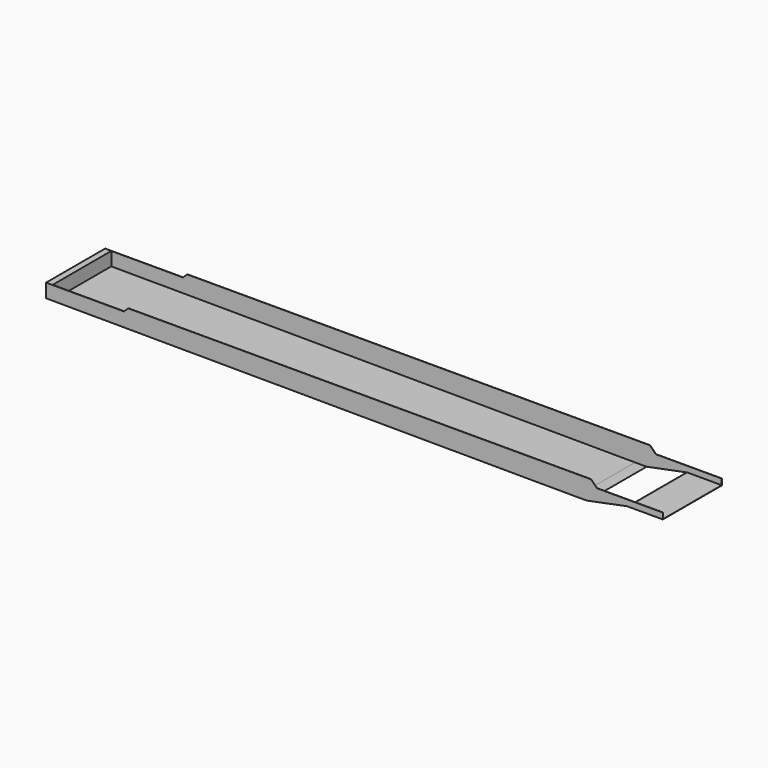
from build123d import *

# Parameters (mm, degrees)
EXTRUDE031_DEPTH = 452
EXTRUDE015_DEPTH = 455


with BuildPart() as extrude031:
    # Sketch032 → Extrude031 (new body, symmetric)
    with BuildSketch(Plane.XZ):
        Polygon((-522, -239), (362, -239), (422, -179), (6104, -179), (6187, -262), (7022, -262), (7022, -337), (6582, -337), (6082, -437), (5932, -437), (-522, -409), align=None)
    extrude(amount=EXTRUDE031_DEPTH, both=True)


with BuildPart() as extrude031_1:
    # Extrude031 placement: moved
    add(extrude031.part.moved(Location((0, 0, 3))))


with BuildPart() as cut:
    # Sketch023 → Extrude015 (new body, symmetric)
    with BuildSketch(Plane.XZ):
        Polygon((-600, -239), (362, -239), (412, -189), (6115, -189), (6188, -262), (7000, -262), (7000, -337), (6560, -337), (6060, -437), (5910, -437), (-600, -409), align=None)
    extrude(amount=EXTRUDE015_DEPTH, both=True)

    # Cut: cut Extrude031
    add(extrude031_1.part, mode=Mode.SUBTRACT)


solid = cut.part
